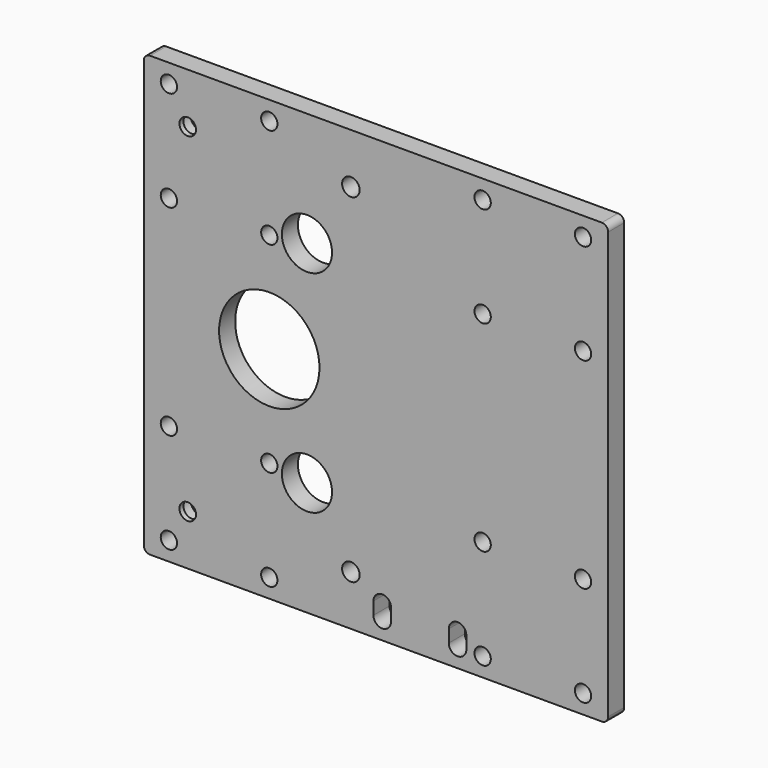
from build123d import *

# Parameters (mm, degrees)
F0_W           = 185
F0_H           = 175
F0_R           = 20
F1_DEPTH       = 8
F3_D           = 6.5
F4_D           = 20
F5_D           = 7
F7_DEPTH       = 25
F9_D           = 6.6
F9_CBORE_D     = 11.25
F9_CBORE_DEPTH = 6
F10_R          = 2.5


with BuildPart() as f1:
    # F0 (on Front) → F1 (new body)
    with BuildSketch(Plane.XZ):
        Rectangle(F0_W, F0_H)
        with Locations((-42.5, 0)):
            Circle(F0_R, mode=Mode.SUBTRACT)
    extrude(amount=F1_DEPTH)

    # F3 (through all)
    with Locations(Plane.XZ.offset(8)):
        with Locations((-82.5, 80), (-42.5, 80), (-42.5, 40), (-82.5, 40), (-82.5, -40), (-42.5, -40), (-42.5, -80), (-82.5, -80), (42.5, -80), (82.5, -80), (82.5, -40), (42.5, -40), (42.5, 40), (82.5, 40), (82.5, 80), (42.5, 80)):
            Hole(F3_D / 2)

    # F4 (through all)
    with Locations(Plane.XZ.offset(8)):
        with Locations((-27.5, -42), (-27.5, 42)):
            Hole(F4_D / 2)

    # F5 (through all)
    with Locations(Plane.XZ.offset(8)):
        with Locations((-10, 67.5), (-10, -67.5)):
            Hole(F5_D / 2)

    # F6 (on face) → F7 (cut)
    with BuildSketch(Plane.XZ.offset(8)):
        with BuildLine():
            Line((6, -79.81), (6, -74.81))
            ThreePointArc((6, -74.81), (2.5, -71.31), (-1, -74.81))
            Line((-1, -74.81), (-1, -79.81))
            ThreePointArc((-1, -79.81), (2.5, -83.31), (6, -79.81))
        make_face()
        with BuildLine():
            Line((36, -79.81), (36, -74.81))
            ThreePointArc((36, -74.81), (32.5, -71.31), (29, -74.81))
            Line((29, -74.81), (29, -79.81))
            ThreePointArc((29, -79.81), (32.5, -83.31), (36, -79.81))
        make_face()
    extrude(amount=-F7_DEPTH, mode=Mode.SUBTRACT)

    # F9 (through all)
    with Locations(Plane(origin=(0, 0, 0), x_dir=(-1, 0, 0), z_dir=(0, 1, 0))):
        with Locations((75, 67.5), (75, -67.5)):
            CounterBoreHole(F9_D / 2, F9_CBORE_D / 2, F9_CBORE_DEPTH)

    # F10
    f10_edges = [f1.edges().sort_by_distance(p)[0] for p in [
        (-92.5, -4, 87.5),
        (-92.5, -4, -87.5),
        (92.5, -4, -87.5),
        (92.5, -4, 87.5),
    ]]
    fillet(f10_edges, radius=F10_R)


solid = f1.part
